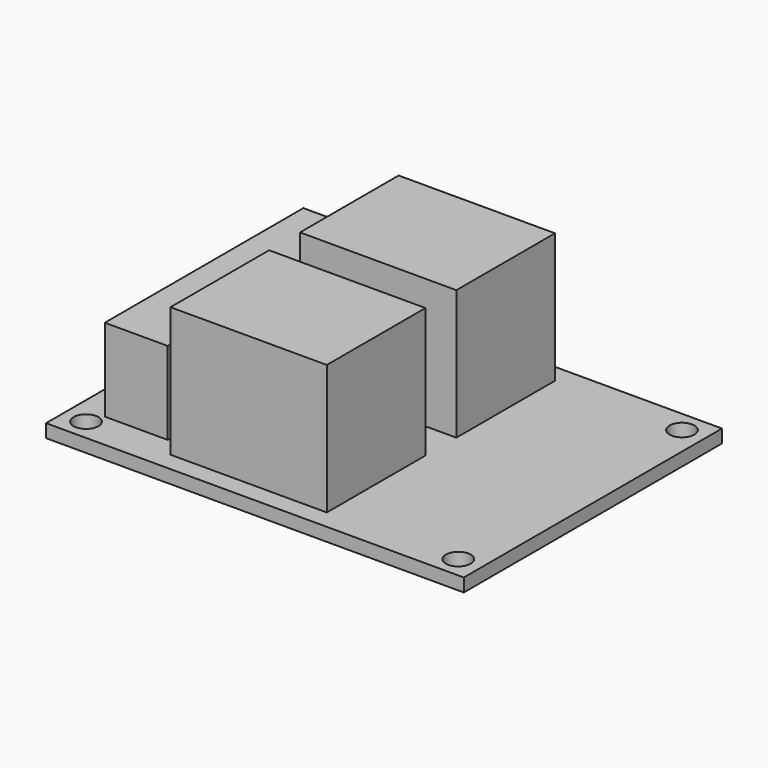
from build123d import *

# Parameters (mm, degrees)
F0_W     = 50.5
F0_H     = 39
F0_R     = 1.5
F1_DEPTH = 1.6
F2_W     = 18.9
F2_H     = 14.9
F3_DEPTH = 15.7
F4_W     = 7.6
F4_H     = 30
F5_DEPTH = 10


with BuildPart() as f1:
    # F0 (on Top) → F1 (new body)
    with BuildSketch(Plane.XY):
        Rectangle(F0_W, F0_H)
        with Locations((-22.5, -16.9)):
            Circle(F0_R, mode=Mode.SUBTRACT)
        with Locations((22.5, -16.9)):
            Circle(F0_R, mode=Mode.SUBTRACT)
        with Locations((-22.5, 16.9)):
            Circle(F0_R, mode=Mode.SUBTRACT)
        with Locations((22.5, 16.9)):
            Circle(F0_R, mode=Mode.SUBTRACT)
    extrude(amount=F1_DEPTH)

    # F2 (on face) → F3 (join)
    with BuildSketch(Plane.XY.offset(1.6)):
        with Locations((-2.6, 9.822445)):
            Rectangle(F2_W, F2_H)
        with Locations((-2.6, -9.752966)):
            Rectangle(F2_W, F2_H)
    extrude(amount=F3_DEPTH)

    # F4 (on face) → F5 (join)
    with BuildSketch(Plane.XY.offset(1.6)):
        with Locations((-17.95, 0)):
            Rectangle(F4_W, F4_H)
    extrude(amount=F5_DEPTH)


solid = f1.part
